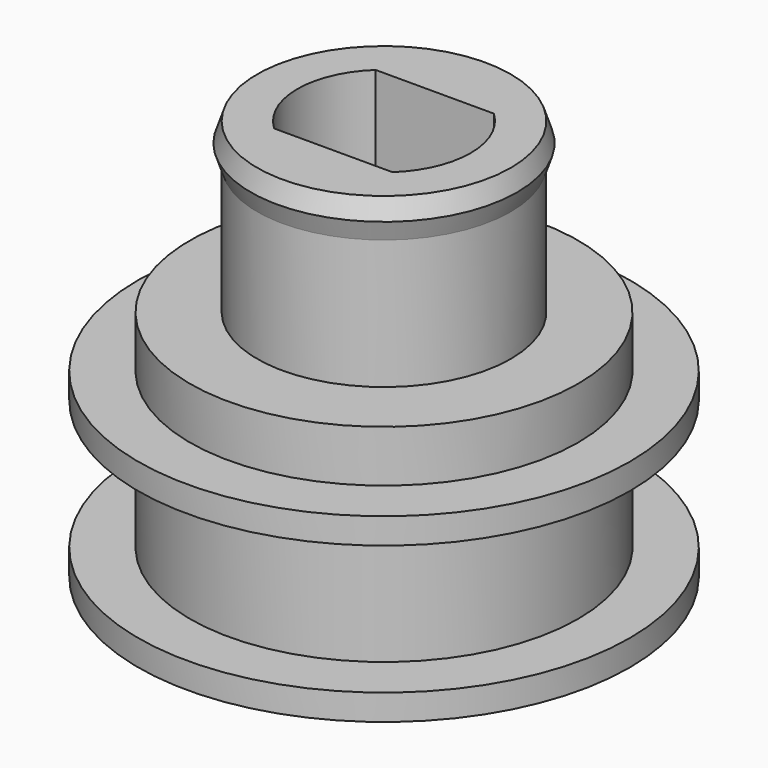
from build123d import *

# Parameters (mm, degrees)
F3_R     = 9.5
F3_R_2   = 7.5
F3_R_3   = 4.9
F4_DEPTH = 1
F6_DEPTH = 9
F7_DEPTH = 15.5


with BuildPart() as f4:
    # F3 (on Top) → F4 (new body)
    with BuildSketch(Plane.XY):
        Circle(F3_R)
        Circle(F3_R_2, mode=Mode.SUBTRACT)
        Circle(F3_R)
        Circle(F3_R_2, mode=Mode.SUBTRACT)
        Circle(F3_R_2)
        Circle(F3_R_3, mode=Mode.SUBTRACT)
        Circle(F3_R_3)
        with BuildLine():
            ThreePointArc((-2.2847319318, -2.45), (-3.35, 0), (-2.2847319318, 2.45))
            Line((-2.2847319318, 2.45), (2.2847319318, 2.45))
            ThreePointArc((2.2847319318, 2.45), (3.35, 0), (2.2847319318, -2.45))
            Line((2.2847319318, -2.45), (-2.2847319318, -2.45))
        make_face(mode=Mode.SUBTRACT)
    extrude(amount=F4_DEPTH)


with BuildPart() as f5_1:
    # F5: copy of F4
    add(f4.part.moved(Location((0, 0, 6))))


with BuildPart() as f6:
    # F3 (on Top) → F6 (new body)
    with BuildSketch(Plane.XY):
        Circle(F3_R_2)
        Circle(F3_R_3, mode=Mode.SUBTRACT)
        Circle(F3_R_3)
        with BuildLine():
            ThreePointArc((-2.2847319318, -2.45), (-3.35, 0), (-2.2847319318, 2.45))
            Line((-2.2847319318, 2.45), (2.2847319318, 2.45))
            ThreePointArc((2.2847319318, 2.45), (3.35, 0), (2.2847319318, -2.45))
            Line((2.2847319318, -2.45), (-2.2847319318, -2.45))
        make_face(mode=Mode.SUBTRACT)
    extrude(amount=F6_DEPTH)


with BuildPart() as f4_1:
    add(f4.part)

    add(f5_1.part)  # F7 merges F5_1

    add(f6.part)  # F7 merges F6
    # F3 (on Top) → F7 (join)
    with BuildSketch(Plane.XY):
        Circle(F3_R_3)
        with BuildLine():
            ThreePointArc((-2.2847319318, -2.45), (-3.35, 0), (-2.2847319318, 2.45))
            Line((-2.2847319318, 2.45), (2.2847319318, 2.45))
            ThreePointArc((2.2847319318, 2.45), (3.35, 0), (2.2847319318, -2.45))
            Line((2.2847319318, -2.45), (-2.2847319318, -2.45))
        make_face(mode=Mode.SUBTRACT)
    extrude(amount=F7_DEPTH)

    # F8 (on Front) → F9 (revolve)
    with BuildSketch(Plane.XZ):
        Polygon((5.15, 14.75), (4.9, 15.5), (4.9, 14), align=None)
    revolve(axis=Axis((0, 0, 8.7542282417), (0, 0, 1)))


solid = f4_1.part
